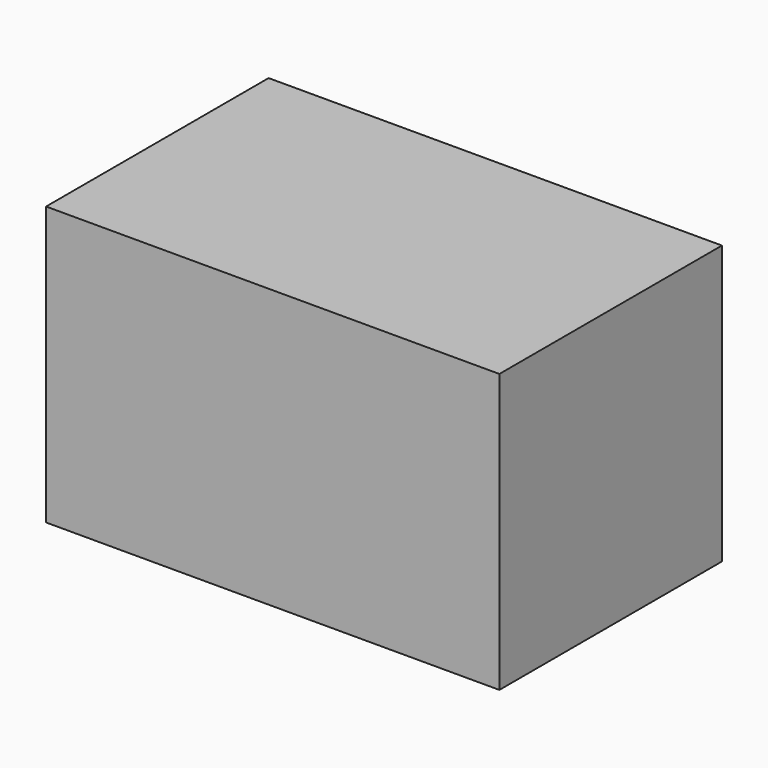
from build123d import *

# Parameters (mm, degrees)
SKETCH_W  = 2.2
SKETCH_H  = 1.35
PAD_DEPTH = 1.35


with BuildPart() as part:
    # Sketch → Pad (new body)
    with BuildSketch(Plane.XY):
        Rectangle(SKETCH_W, SKETCH_H)
    extrude(amount=PAD_DEPTH)


solid = part.part
